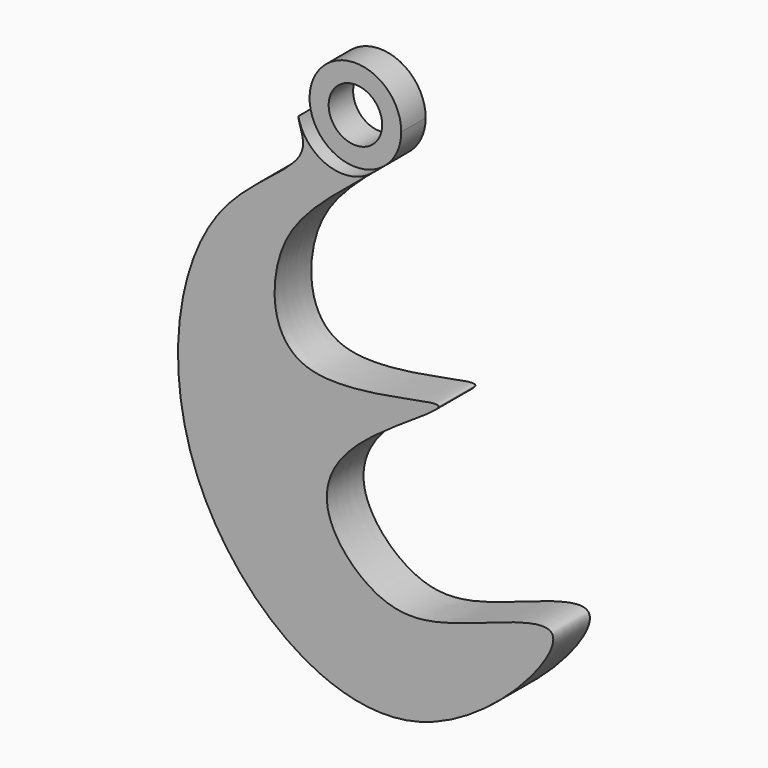
from build123d import *

# Parameters (mm, degrees)
F1_DEPTH = 3
F0_R     = 1.75
F2_DEPTH = 2


with BuildPart() as f1:
    # F0 (on Front) → F1 (new body)
    with BuildSketch(Plane.XZ):
        with BuildLine():
            ThreePointArc((1.8516270923, -2.3603976595), (-1.0250213871, -2.8194558262), (-2.9352067128, -0.6201302713))
            add(Edge.make_bspline(
                [(1.8516270923, -2.3603976595), (-1.5435262428, -5.1531654917), (-4.9703038894, -7.7903942414), (-4.4659126997, -17.3894800451), (10.7377335035, -12.4088722053), (-0.2198560867, -18.1238212612), (-1.943506308, -23.0811061623), (2.803149823, -27.7374023067), (7.7878255624, -26.5228936409), (17.4060303656, -22.6191733067), (4.0405719528, -38.3522810822), (-12.6841676323, -25.0752041128), (-10.4113956377, -7.0632373129), (-1.5752460885, -3.2703354982), (-2.9380878622, -0.9949101266), (-2.9352067128, -0.6201302713)],
                knots=[0, 0, 0, 0, 0.0840090026, 0.1518991712, 0.234037491, 0.3057918372, 0.3684326487, 0.431958469, 0.4980875116, 0.562983106, 0.6591696904, 0.7732946047, 0.8853420286, 0.9619978084, 1, 1, 1, 1], degree=3))
        make_face()
    extrude(amount=F1_DEPTH)

    # F0 (on Front) → F2 (join)
    with BuildSketch(Plane.XZ):
        with BuildLine():
            ThreePointArc((1.8516270923, -2.3603976595), (2.6976731897, -1.3124630896), (3, 0))
            ThreePointArc((3, 0), (-0.3117529966, 2.9837577095), (-2.9352067128, -0.6201302713))
            ThreePointArc((-2.9352067128, -0.6201302713), (-1.0250213871, -2.8194558262), (1.8516270923, -2.3603976595))
        make_face()
        Circle(F0_R, mode=Mode.SUBTRACT)
    extrude(amount=F2_DEPTH)


solid = f1.part
